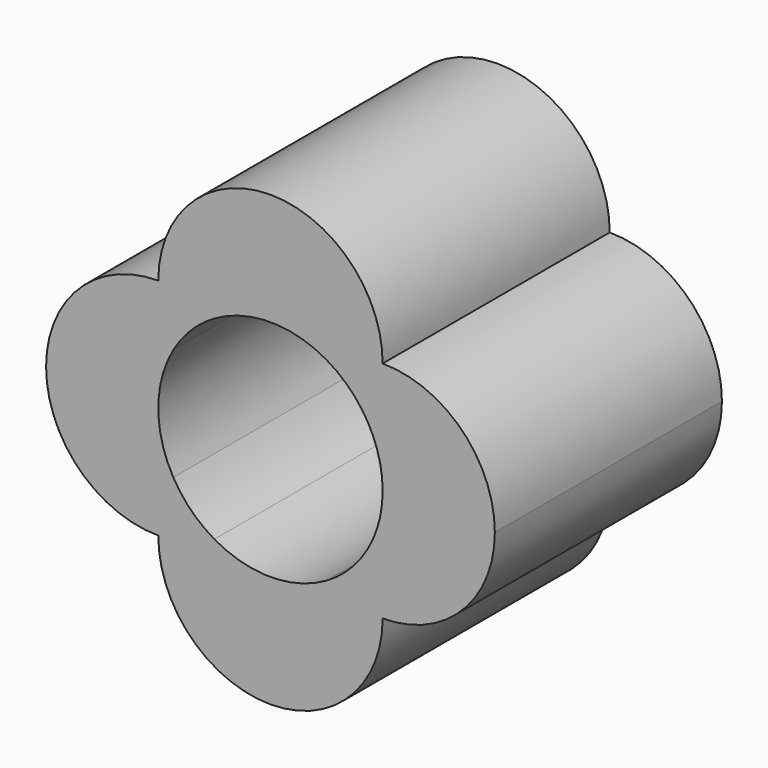
from build123d import *

# Parameters (mm, degrees)
F1_DEPTH = 64.262


with BuildPart() as f1:
    # F0 (on Front) → F1 (new body)
    with BuildSketch(Plane.XZ):
        with BuildLine():
            ThreePointArc((21.9970452561, 12.7), (24.5345159877, 6.5740037456), (25.4, 0))
            ThreePointArc((25.4, 0), (24.5345159877, -6.5740037456), (21.9970452561, -12.7))
            ThreePointArc((21.9970452561, -12.7), (24.5345159877, -18.8259962544), (25.4, -25.4))
            ThreePointArc((25.4, -25.4), (43.3605122421, -17.9605122421), (50.8, 0))
            ThreePointArc((50.8, 0), (43.3605122421, 17.9605122421), (25.4, 25.4))
            ThreePointArc((25.4, 25.4), (24.5345159877, 18.8259962544), (21.9970452561, 12.7))
        make_face()
        with BuildLine():
            ThreePointArc((12.7, 21.9970452561), (17.9605122421, 17.9605122421), (21.9970452561, 12.7))
            ThreePointArc((21.9970452561, 12.7), (24.5345159877, 18.8259962544), (25.4, 25.4))
            ThreePointArc((25.4, 25.4), (18.8259962544, 24.5345159877), (12.7, 21.9970452561))
        make_face()
        with BuildLine():
            ThreePointArc((25.4, -25.4), (24.5345159877, -18.8259962544), (21.9970452561, -12.7))
            ThreePointArc((21.9970452561, -12.7), (17.9605122421, -17.9605122421), (12.7, -21.9970452561))
            ThreePointArc((12.7, -21.9970452561), (18.8259962544, -24.5345159877), (25.4, -25.4))
        make_face()
        with BuildLine():
            ThreePointArc((-12.7, 21.9970452561), (0, 25.4), (12.7, 21.9970452561))
            ThreePointArc((12.7, 21.9970452561), (18.8259962544, 24.5345159877), (25.4, 25.4))
            ThreePointArc((25.4, 25.4), (0, 50.8), (-25.4, 25.4))
            ThreePointArc((-25.4, 25.4), (-18.8259962544, 24.5345159877), (-12.7, 21.9970452561))
        make_face()
        with BuildLine():
            ThreePointArc((25.4, -25.4), (18.8259962544, -24.5345159877), (12.7, -21.9970452561))
            ThreePointArc((12.7, -21.9970452561), (0, -25.4), (-12.7, -21.9970452561))
            ThreePointArc((-12.7, -21.9970452561), (-18.8259962544, -24.5345159877), (-25.4, -25.4))
            ThreePointArc((-25.4, -25.4), (0, -50.8), (25.4, -25.4))
        make_face()
        with BuildLine():
            ThreePointArc((-21.9970452561, 12.7), (-17.9605122421, 17.9605122421), (-12.7, 21.9970452561))
            ThreePointArc((-12.7, 21.9970452561), (-18.8259962544, 24.5345159877), (-25.4, 25.4))
            ThreePointArc((-25.4, 25.4), (-24.5345159877, 18.8259962544), (-21.9970452561, 12.7))
        make_face()
        with BuildLine():
            ThreePointArc((-25.4, -25.4), (-18.8259962544, -24.5345159877), (-12.7, -21.9970452561))
            ThreePointArc((-12.7, -21.9970452561), (-17.9605122421, -17.9605122421), (-21.9970452561, -12.7))
            ThreePointArc((-21.9970452561, -12.7), (-24.5345159877, -18.8259962544), (-25.4, -25.4))
        make_face()
        with BuildLine():
            ThreePointArc((-21.9970452561, -12.7), (-25.4, 0), (-21.9970452561, 12.7))
            ThreePointArc((-21.9970452561, 12.7), (-24.5345159877, 18.8259962544), (-25.4, 25.4))
            ThreePointArc((-25.4, 25.4), (-50.8, 0), (-25.4, -25.4))
            ThreePointArc((-25.4, -25.4), (-24.5345159877, -18.8259962544), (-21.9970452561, -12.7))
        make_face()
    extrude(amount=F1_DEPTH)


solid = f1.part
